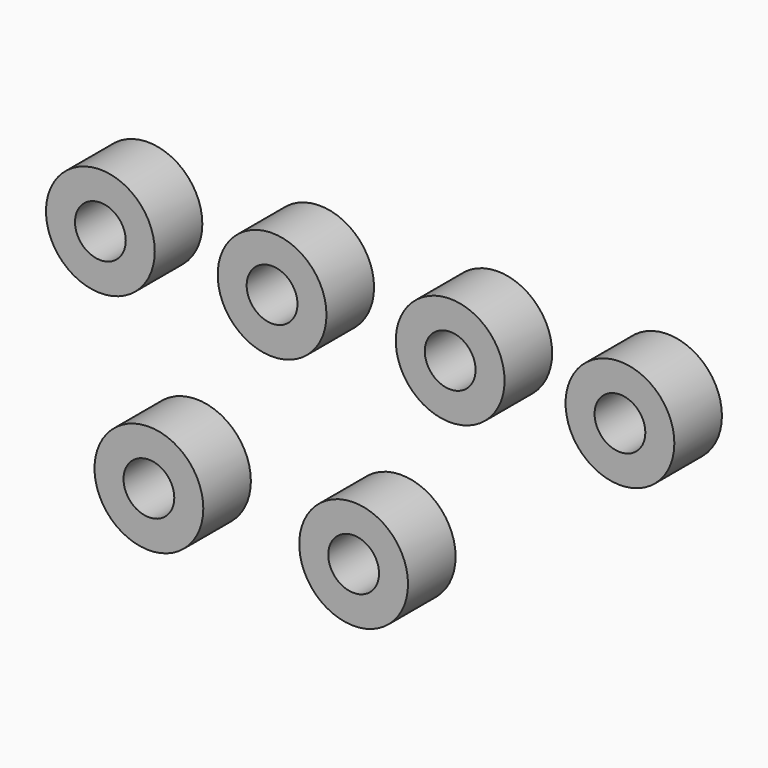
from build123d import *

# Parameters (mm, degrees)
F0_R     = 9.525
F0_R_2   = 4.445
F1_DEPTH = 10.414


with BuildPart() as f1:
    # F0 (on Front) → F1 (new body)
    with BuildSketch(Plane.XZ):
        with Locations((-39.686805, 0)):
            Circle(F0_R)
        with Locations((-39.686805, 0)):
            Circle(F0_R_2, mode=Mode.SUBTRACT)
        with Locations((-9.618689, 0)):
            Circle(F0_R)
        with Locations((-9.618689, 0)):
            Circle(F0_R_2, mode=Mode.SUBTRACT)
        with Locations((21.569181, 0)):
            Circle(F0_R)
        with Locations((21.569181, 0)):
            Circle(F0_R_2, mode=Mode.SUBTRACT)
        with Locations((51.299673, 0)):
            Circle(F0_R)
        with Locations((51.299673, 0)):
            Circle(F0_R_2, mode=Mode.SUBTRACT)
        with Locations((-31.18787, -36.871642)):
            Circle(F0_R)
        with Locations((-31.18787, -36.871642)):
            Circle(F0_R_2, mode=Mode.SUBTRACT)
        with Locations((4.663608, -36.871642)):
            Circle(F0_R)
        with Locations((4.663608, -36.871642)):
            Circle(F0_R_2, mode=Mode.SUBTRACT)
    extrude(amount=F1_DEPTH)


solid = f1.part
